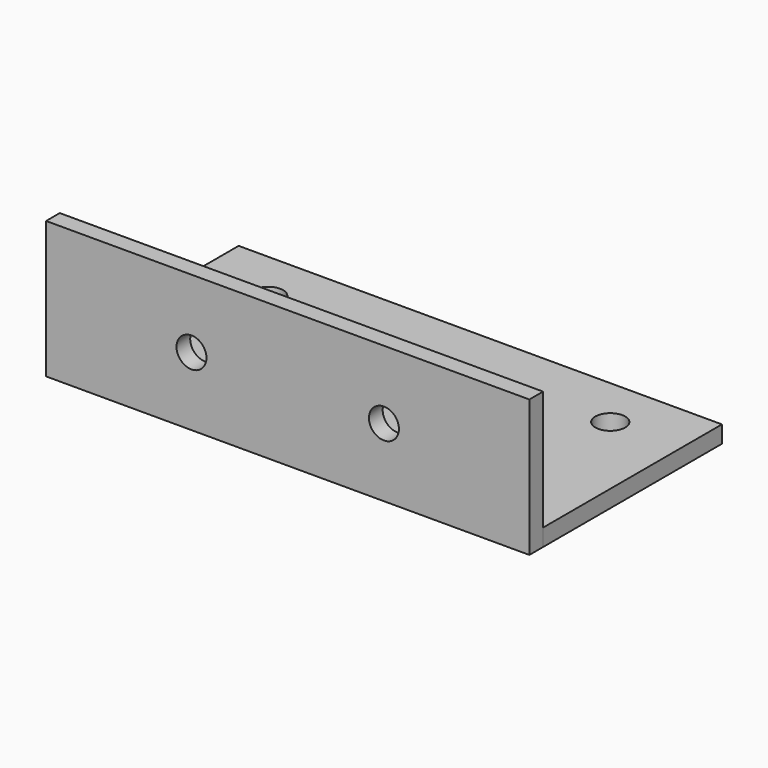
from build123d import *

# Parameters (mm, degrees)
F0_W     = 358.775
F0_H     = 165.989
F0_R     = 11.1125
F1_DEPTH = 12.7
F2_W     = 358.775
F2_H     = 101.6
F3_DEPTH = 12.7
F4_R     = 11.1125
F5_DEPTH = 178.69


with BuildPart() as f1:
    # F0 (on Top) → F1 (new body)
    with BuildSketch(Plane.XY):
        Rectangle(F0_W, F0_H)
        with Locations((-127, -44.8945)):
            Circle(F0_R, mode=Mode.SUBTRACT)
        with Locations((127, -44.8945)):
            Circle(F0_R, mode=Mode.SUBTRACT)
        with Locations((-127, 44.8945)):
            Circle(F0_R, mode=Mode.SUBTRACT)
        with Locations((127, 44.8945)):
            Circle(F0_R, mode=Mode.SUBTRACT)
    extrude(amount=F1_DEPTH)


with BuildPart() as f3:
    # F2 (on face) → F3 (new body)
    with BuildSketch(Plane.XZ.offset(82.9945)):
        with Locations((0, 50.8)):
            Rectangle(F2_W, F2_H)
    extrude(amount=F3_DEPTH)

    # F4 (on face) → F5 (cut, through all)
    with BuildSketch(Plane.XZ.offset(95.6945)):
        with Locations((-71.4375, 50.8)):
            Circle(F4_R)
        with Locations((71.4375, 50.8)):
            Circle(F4_R)
    extrude(amount=-F5_DEPTH, mode=Mode.SUBTRACT)


solid = Compound([f1.part, f3.part])
